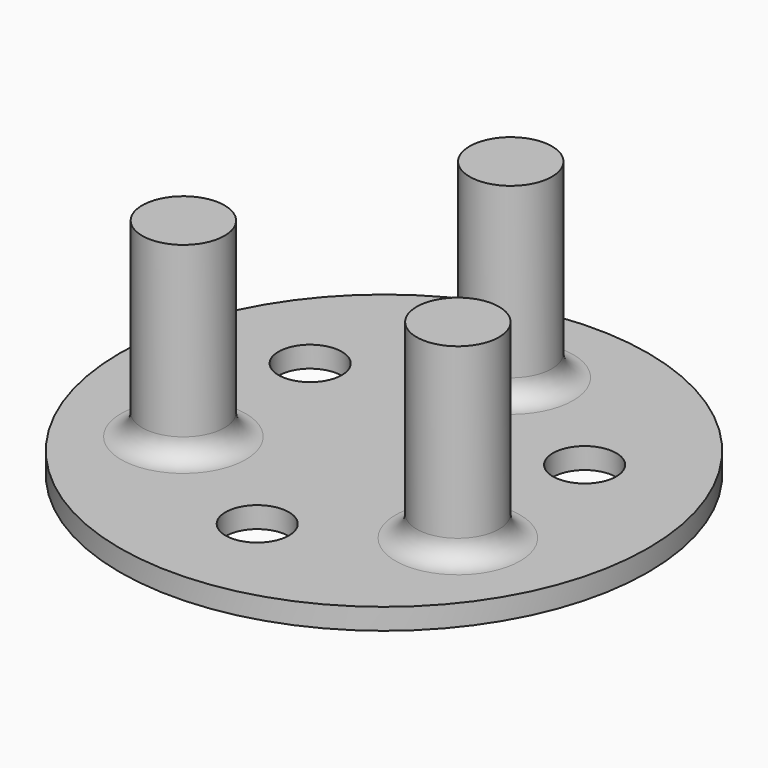
from build123d import *

# Parameters (mm, degrees)
F1_R     = 25
F2_DEPTH = 2
F0_R     = 3.9
F3_DEPTH = 18
F4_R     = 2
F0_R_2   = 3
F5_DEPTH = 2


with BuildPart() as f2:
    # F1 (on Top) → F2 (new body)
    with BuildSketch(Plane.XY):
        Circle(F1_R)
    extrude(amount=-F2_DEPTH)

    # F0 (on Top) → F3 (join)
    with BuildSketch(Plane.XY):
        with Locations((-12.9903810568, -7.5)):
            Circle(F0_R)
        with Locations((0, 15)):
            Circle(F0_R)
        with Locations((12.9903810568, -7.5)):
            Circle(F0_R)
    extrude(amount=F3_DEPTH)

    # F4
    f4_edges = [f2.edges().sort_by_distance(p)[0] for p in [
        (9.090381, -7.5, 0),
        (-3.9, 15, 0),
        (-16.890381, -7.5, 0),
    ]]
    fillet(f4_edges, radius=F4_R)

    # F0 (on Top) → F5 (cut)
    with BuildSketch(Plane.XY):
        with Locations((12.9903810568, 7.5)):
            Circle(F0_R_2)
        with Locations((-12.9903810568, 7.5)):
            Circle(F0_R_2)
        with Locations((0, -15)):
            Circle(F0_R_2)
    extrude(amount=-F5_DEPTH, mode=Mode.SUBTRACT)


solid = f2.part
